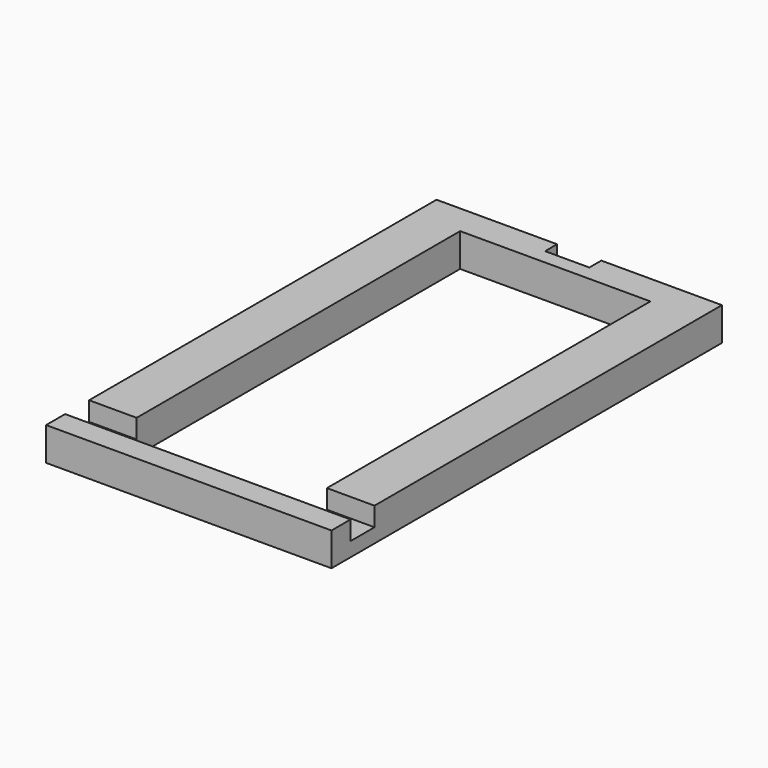
from build123d import *

# Parameters (mm, degrees)
F0_W     = 10
F0_H     = 85
F1_DEPTH = 7
F0_H_2   = 5
F0_H_3   = 6.3
F2_DEPTH = 3


with BuildPart() as f1:
    # F0 (on Top) → F1 (new body)
    with BuildSketch(Plane.XY):
        with Locations((25, 2.5)):
            Rectangle(F0_W, F0_H)
        Polygon((20, 45), (30, 45), (30, 51.3), (4.65, 51.3), (4.65, 48.15), (4.65, 45), align=None)
        Polygon((-30, 45), (-20, 45), (-4.65, 45), (-4.65, 48.15), (-4.65, 51.3), (-30, 51.3), align=None)
        with Locations((-25, 2.5)):
            Rectangle(F0_W, F0_H)
        Polygon((0, 45), (4.65, 45), (4.65, 48.15), (-4.65, 48.15), (-4.65, 45), align=None)
    extrude(amount=F1_DEPTH)



with BuildPart() as f1b:
    # F0 (on Top) → F1, piece 2 (new body)
    with BuildSketch(Plane.XY):
        with Locations((-25, -48.8)):
            Rectangle(F0_W, F0_H_2)
        Polygon((-20, -51.3), (20, -51.3), (20, -46.3), (0, -46.3), (-20, -46.3), align=None)
        with Locations((25, -48.8)):
            Rectangle(F0_W, F0_H_2)
    extrude(amount=F1_DEPTH)


with BuildPart() as f1_1:
    add(f1.part)

    add(f1b.part)  # F2 merges F1b
    # F0 (on Top) → F2 (join)
    with BuildSketch(Plane.XY):
        with Locations((25, -43.15)):
            Rectangle(F0_W, F0_H_3)
        with Locations((-25, -43.15)):
            Rectangle(F0_W, F0_H_3)
    extrude(amount=F2_DEPTH)


solid = f1_1.part
